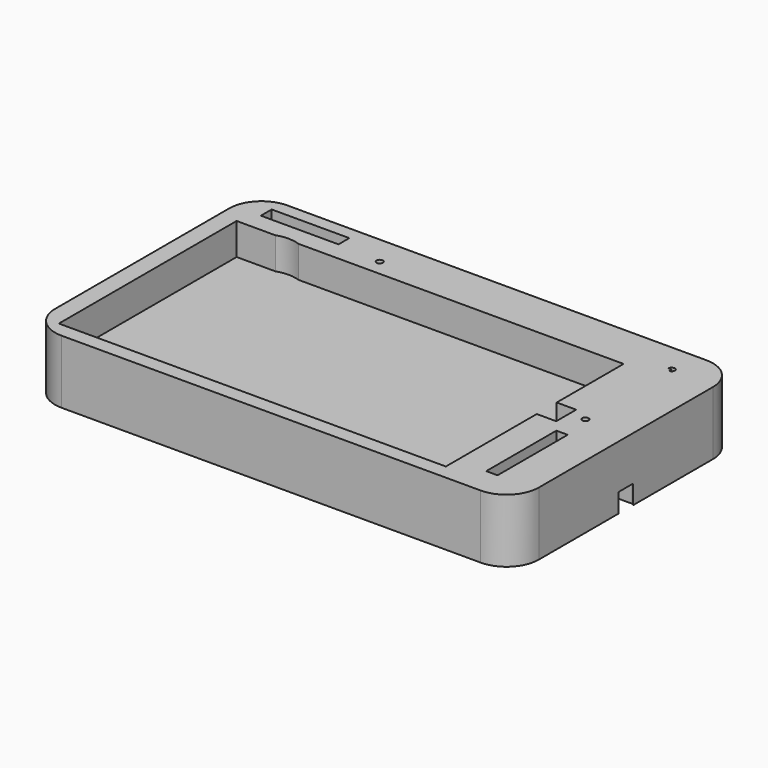
from build123d import *

# Parameters (mm, degrees)
F0_W      = 76.2
F0_H      = 44.45
F1_DEPTH  = 10
F3_W      = 60.96
F3_H      = 35
F5_DEPTH  = 5
F6_DEPTH  = 3
F7_DEPTH  = 5
F8_DEPTH  = 3
F9_R      = 5.08
F10_W     = 3.1023733318
F10_H     = 3.9349872386
F11_DEPTH = 11
F12_W     = 42.3543415964
F12_H     = 1.6788681969
F13_DEPTH = 3
F4_R      = 0.5
F14_DEPTH = 8
F16_DEPTH = 3
F17_W     = 1.7839074135
F17_H     = 13.8109410182
F17_W_2   = 12.2273676097
F17_H_2   = 2.1280329674
F18_DEPTH = 3


with BuildPart() as f1:
    # F0 (on Top) → F1 (new body)
    with BuildSketch(Plane.XY):
        Rectangle(F0_W, F0_H)
        with BuildLine():
            Line((-30.0455586378, -5.2290757074), (-30.0455586378, 5.0972730335))
            ThreePointArc((-30.0455586378, 5.0972730335), (-30.1515789958, 14.6432590947), (-21.8663889779, 9.9006104081))
            ThreePointArc((-21.8663889779, 9.9006104081), (-22.9155259968, 6.6695395757), (-25.6626866956, 4.6711363874))
            Line((-25.6626866956, 4.6711363874), (-25.6626866956, 1.9259689143))
            Line((-25.6626866956, 1.9259689143), (26.3650547713, 1.9259689143))
            Line((26.3650547713, 1.9259689143), (28.737584129, 1.9259689143))
            Line((28.737584129, 1.9259689143), (28.737584129, -2.0090183243))
            Line((28.737584129, -2.0090183243), (26.3650547713, -2.0090183243))
            Line((26.3650547713, -2.0090183243), (-25.6626866956, -2.0090183243))
            Line((-25.6626866956, -2.0090183243), (-25.6626866956, -4.8029390612))
            ThreePointArc((-25.6626866956, -4.8029390612), (-22.9155259968, -6.8013422496), (-21.8663889779, -10.0324130819))
            ThreePointArc((-21.8663889779, -10.0324130819), (-30.1515789958, -14.7750617685), (-30.0455586378, -5.2290757074))
        make_face(mode=Mode.SUBTRACT)
    extrude(amount=F1_DEPTH)

    # F3 (on face) → F5 (cut)
    with BuildSketch(Plane.XY.offset(10)):
        with Locations((-4.8115077713, -2.409234643)):
            Rectangle(F3_W, F3_H)
    extrude(amount=-F5_DEPTH, mode=Mode.SUBTRACT)

    # F0 (on Top) → F6 (cut)
    with BuildSketch(Plane.XY):
        with BuildLine():
            ThreePointArc((-30.0455586378, 5.0972730335), (-28.7505212765, 4.5776246125), (-27.3663889779, 4.4006104081))
            ThreePointArc((-27.3663889779, 4.4006104081), (-26.5038656779, 4.468662916), (-25.6626866956, 4.6711363874))
            ThreePointArc((-25.6626866956, 4.6711363874), (-22.9155259968, 6.6695395757), (-21.8663889779, 9.9006104081))
            ThreePointArc((-21.8663889779, 9.9006104081), (-30.1515789958, 14.6432590947), (-30.0455586378, 5.0972730335))
        make_face()
        with BuildLine():
            ThreePointArc((-25.6626866956, -4.8029390612), (-26.5038656779, -4.6004655898), (-27.3663889779, -4.5324130819))
            ThreePointArc((-27.3663889779, -4.5324130819), (-28.7505212765, -4.7094272864), (-30.0455586378, -5.2290757074))
            ThreePointArc((-30.0455586378, -5.2290757074), (-30.1515789958, -14.7750617685), (-21.8663889779, -10.0324130819))
            ThreePointArc((-21.8663889779, -10.0324130819), (-22.9155259968, -6.8013422496), (-25.6626866956, -4.8029390612))
        make_face()
    extrude(amount=F6_DEPTH, mode=Mode.SUBTRACT)

    # F0 (on Top) → F7 (join)
    with BuildSketch(Plane.XY):
        Polygon((26.3650547713, 1.9259689143), (-25.6626866956, 1.9259689143), (-25.6626866956, -2.0090183243), (26.3650547713, -2.0090183243), (28.737584129, -2.0090183243), (28.737584129, 1.9259689143), align=None)
        with BuildLine():
            ThreePointArc((-25.6626866956, -4.8029390612), (-26.5038656779, -4.6004655898), (-27.3663889779, -4.5324130819))
            ThreePointArc((-27.3663889779, -4.5324130819), (-28.7505212765, -4.7094272864), (-30.0455586378, -5.2290757074))
            ThreePointArc((-30.0455586378, -5.2290757074), (-30.1515789958, -14.7750617685), (-21.8663889779, -10.0324130819))
            ThreePointArc((-21.8663889779, -10.0324130819), (-22.9155259968, -6.8013422496), (-25.6626866956, -4.8029390612))
        make_face()
        with BuildLine():
            Line((-27.3663889779, -4.5324130819), (-27.3663889779, 4.4006104081))
            ThreePointArc((-27.3663889779, 4.4006104081), (-28.7505212765, 4.5776246125), (-30.0455586378, 5.0972730335))
            Line((-30.0455586378, 5.0972730335), (-30.0455586378, -5.2290757074))
            ThreePointArc((-30.0455586378, -5.2290757074), (-28.7505212765, -4.7094272864), (-27.3663889779, -4.5324130819))
        make_face()
        with BuildLine():
            ThreePointArc((-30.0455586378, 5.0972730335), (-28.7505212765, 4.5776246125), (-27.3663889779, 4.4006104081))
            ThreePointArc((-27.3663889779, 4.4006104081), (-26.5038656779, 4.468662916), (-25.6626866956, 4.6711363874))
            ThreePointArc((-25.6626866956, 4.6711363874), (-22.9155259968, 6.6695395757), (-21.8663889779, 9.9006104081))
            ThreePointArc((-21.8663889779, 9.9006104081), (-30.1515789958, 14.6432590947), (-30.0455586378, 5.0972730335))
        make_face()
        with BuildLine():
            ThreePointArc((-25.6626866956, 4.6711363874), (-26.5038656779, 4.468662916), (-27.3663889779, 4.4006104081))
            Line((-27.3663889779, 4.4006104081), (-27.3663889779, -4.5324130819))
            ThreePointArc((-27.3663889779, -4.5324130819), (-26.5038656779, -4.6004655898), (-25.6626866956, -4.8029390612))
            Line((-25.6626866956, -4.8029390612), (-25.6626866956, -2.0090183243))
            Line((-25.6626866956, -2.0090183243), (-25.6626866956, 1.9259689143))
            Line((-25.6626866956, 1.9259689143), (-25.6626866956, 4.6711363874))
        make_face()
    extrude(amount=F7_DEPTH)

    # F0 (on Top) → F8 (cut)
    with BuildSketch(Plane.XY):
        Polygon((26.3650547713, 1.9259689143), (-25.6626866956, 1.9259689143), (-25.6626866956, -2.0090183243), (26.3650547713, -2.0090183243), (28.737584129, -2.0090183243), (28.737584129, 1.9259689143), align=None)
        with BuildLine():
            ThreePointArc((-30.0455586378, 5.0972730335), (-28.7505212765, 4.5776246125), (-27.3663889779, 4.4006104081))
            ThreePointArc((-27.3663889779, 4.4006104081), (-26.5038656779, 4.468662916), (-25.6626866956, 4.6711363874))
            ThreePointArc((-25.6626866956, 4.6711363874), (-22.9155259968, 6.6695395757), (-21.8663889779, 9.9006104081))
            ThreePointArc((-21.8663889779, 9.9006104081), (-30.1515789958, 14.6432590947), (-30.0455586378, 5.0972730335))
        make_face()
        with BuildLine():
            Line((-27.3663889779, -4.5324130819), (-27.3663889779, 4.4006104081))
            ThreePointArc((-27.3663889779, 4.4006104081), (-28.7505212765, 4.5776246125), (-30.0455586378, 5.0972730335))
            Line((-30.0455586378, 5.0972730335), (-30.0455586378, -5.2290757074))
            ThreePointArc((-30.0455586378, -5.2290757074), (-28.7505212765, -4.7094272864), (-27.3663889779, -4.5324130819))
        make_face()
        with BuildLine():
            ThreePointArc((-25.6626866956, 4.6711363874), (-26.5038656779, 4.468662916), (-27.3663889779, 4.4006104081))
            Line((-27.3663889779, 4.4006104081), (-27.3663889779, -4.5324130819))
            ThreePointArc((-27.3663889779, -4.5324130819), (-26.5038656779, -4.6004655898), (-25.6626866956, -4.8029390612))
            Line((-25.6626866956, -4.8029390612), (-25.6626866956, -2.0090183243))
            Line((-25.6626866956, -2.0090183243), (-25.6626866956, 1.9259689143))
            Line((-25.6626866956, 1.9259689143), (-25.6626866956, 4.6711363874))
        make_face()
        with BuildLine():
            ThreePointArc((-25.6626866956, -4.8029390612), (-26.5038656779, -4.6004655898), (-27.3663889779, -4.5324130819))
            ThreePointArc((-27.3663889779, -4.5324130819), (-28.7505212765, -4.7094272864), (-30.0455586378, -5.2290757074))
            ThreePointArc((-30.0455586378, -5.2290757074), (-30.1515789958, -14.7750617685), (-21.8663889779, -10.0324130819))
            ThreePointArc((-21.8663889779, -10.0324130819), (-22.9155259968, -6.8013422496), (-25.6626866956, -4.8029390612))
        make_face()
    extrude(amount=F8_DEPTH, mode=Mode.SUBTRACT)

    # F9
    f9_edges = [f1.edges().sort_by_distance(p)[0] for p in [
        (38.1, 22.225, 5),
        (38.1, -22.225, 5),
        (-38.1, -22.225, 5),
        (-38.1, 22.225, 5),
    ]]
    fillet(f9_edges, radius=F9_R)

    # F10 (on face) → F11 (cut)
    with BuildSketch(Plane.XY.offset(10)):
        with Locations((27.1863974631, -0.041524705)):
            Rectangle(F10_W, F10_H)
    extrude(amount=-F11_DEPTH, mode=Mode.SUBTRACT)

    # F12 (on face) → F13 (cut)
    with BuildSketch(Plane.XY):
        with Locations((-0.0403206795, -14.995015692)):
            Rectangle(F12_W, F12_H)
        with Locations((-0.0403206795, 14.995015692)):
            Rectangle(F12_W, F12_H)
    extrude(amount=F13_DEPTH, mode=Mode.SUBTRACT)

    # F4 (on face) → F14 (cut)
    with BuildSketch(Plane.XY.offset(10)):
        with Locations((-14.7766097486, 17.6294427365)):
            Circle(F4_R)
        with BuildLine():
            Line((30.7233902514, 17.6294427365), (31.2233902514, 17.6294427365))
            Line((31.2233902514, 17.6294427365), (31.2233902514, 17.1294427365))
            ThreePointArc((31.2233902514, 17.1294427365), (31.576943642, 17.2758893459), (31.7233902514, 17.6294427365))
            ThreePointArc((31.7233902514, 17.6294427365), (31.2233902514, 18.1294427365), (30.7233902514, 17.6294427365))
        make_face()
        with BuildLine():
            ThreePointArc((31.7233902514, 0.6294427365), (31.576943642, 0.9829961271), (31.2233902514, 1.1294427365))
            ThreePointArc((31.2233902514, 1.1294427365), (30.8698368608, 0.2758893459), (31.7233902514, 0.6294427365))
        make_face()
    extrude(amount=-F14_DEPTH, mode=Mode.SUBTRACT)

    # F15 (on face) → F16 (cut)
    with BuildSketch(Plane.XY):
        with BuildLine():
            Line((32.6728916039, -1.6812667771), (37.7627563252, -1.6541663098))
            ThreePointArc((37.7627563252, -1.6541663098), (37.9645099731, -1.5929708523), (38.1, -1.4314410684))
            Line((38.1, -1.4314410684), (38.1, 1.4314410684))
            ThreePointArc((38.1, 1.4314410684), (37.9645099731, 1.5929708523), (37.7627563252, 1.6541663098))
            Line((37.7627563252, 1.6541663098), (32.6728916039, 1.6812667771))
            ThreePointArc((32.6728916039, 1.6812667771), (32.4101390596, 1.5736086497), (32.3012533523, 1.3113624396))
            Line((32.3012533523, 1.3113624396), (32.3021029201, 0))
            Line((32.3021029201, 0), (32.3012533523, -1.3113624396))
            ThreePointArc((32.3012533523, -1.3113624396), (32.4101390596, -1.5736086497), (32.6728916039, -1.6812667771))
        make_face()
    extrude(amount=F16_DEPTH, mode=Mode.SUBTRACT)

    # F17 (on face) → F18 (cut)
    with BuildSketch(Plane.XY.offset(10)):
        with Locations((31.2101058662, -10.862109717)):
            Rectangle(F17_W, F17_H)
        with Locations((-27.7256574482, 19.1172780469)):
            Rectangle(F17_W_2, F17_H_2)
    extrude(amount=-F18_DEPTH, mode=Mode.SUBTRACT)


solid = f1.part
